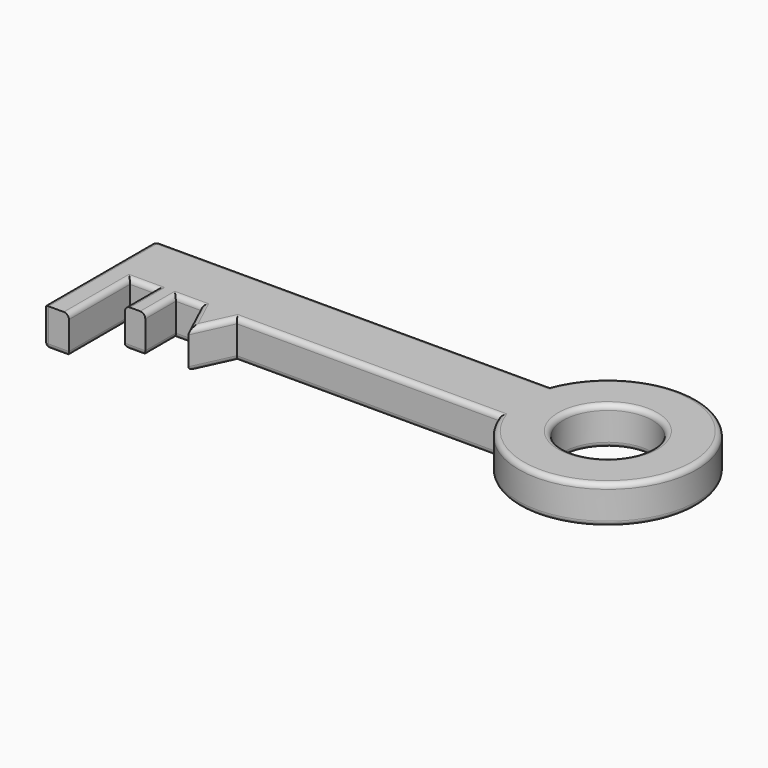
from build123d import *

# Parameters (mm, degrees)
F0_R     = 17.5
F0_W     = 10
F0_H     = 30
F0_W_2   = 8
F0_H_2   = 15
F1_DEPTH = 15
F2_R     = 2
F3_DEPTH = 15
F4_R     = 2


with BuildPart() as f1:
    # F0 (on Top) → F1 (new body)
    with BuildSketch(Plane.XY):
        Polygon((0, 0), (0, 25), (-155, 25), (-155, 0), (-145, 0), (-135, 0), (-127, 0), (-117, 0), (-103, 0), align=None)
        with BuildLine():
            ThreePointArc((0, 0), (67.6917420766, 12.5), (0, 25))
            Line((0, 25), (0, 0))
        make_face()
        with Locations((32.6917420766, 12.5)):
            Circle(F0_R, mode=Mode.SUBTRACT)
        with Locations((-150, -15)):
            Rectangle(F0_W, F0_H)
        with Locations((-131, -7.5)):
            Rectangle(F0_W_2, F0_H_2)
        Polygon((-110, -15.0000602999), (-103, 0), (-117, 0), align=None)
    extrude(amount=F1_DEPTH)

    # F2
    f2_edges = [f1.edges().sort_by_distance(p)[0] for p in [
        (-77.5, 25, 15),
        (-77.5, 25, 0),
        (-155, -2.5, 0),
        (-155, -2.5, 15),
        (-51.5, 0, 0),
        (-150, -30, 15),
        (-145, -15, 15),
        (-140, 0, 15),
        (-135, -7.5, 15),
        (-131, -15, 15),
        (-127, -7.5, 15),
        (-122, 0, 15),
        (-113.5, -7.50003, 15),
        (-106.5, -7.50003, 15),
        (-51.5, 0, 15),
        (67.691742, 12.5, 15),
        (15.191742, 12.5, 15),
    ]]
    fillet(f2_edges, radius=F2_R)

    # F0 (on Top) → F3 (join)
    with BuildSketch(Plane.XY):
        Polygon((0, 0), (0, 25), (-155, 25), (-155, 0), (-145, 0), (-135, 0), (-127, 0), (-117, 0), (-103, 0), align=None)
        with BuildLine():
            ThreePointArc((0, 0), (67.6917420766, 12.5), (0, 25))
            Line((0, 25), (0, 0))
        make_face()
        with Locations((32.6917420766, 12.5)):
            Circle(F0_R, mode=Mode.SUBTRACT)
        with Locations((-150, -15)):
            Rectangle(F0_W, F0_H)
        Polygon((-110, -15.0000602999), (-103, 0), (-117, 0), align=None)
        with Locations((-131, -7.5)):
            Rectangle(F0_W_2, F0_H_2)
    extrude(amount=F3_DEPTH)

    # F4
    f4_edges = [f1.edges().sort_by_distance(p)[0] for p in [
        (-77.5, 25, 15),
        (-155, -2.5, 15),
        (-145, -15, 15),
        (-135, -7.5, 15),
        (-127, -7.5, 15),
        (-113.5, -7.50003, 15),
        (-106.5, -7.50003, 15),
        (-51.5, 0, 15),
        (-122, 0, 15),
        (-140, 0, 15),
        (-155, -30, 7.5),
        (-155, -2.5, 0),
        (-155, 25, 7.5),
        (67.691742, 12.5, 15),
        (15.191742, 12.5, 15),
        (15.191742, 12.5, 0),
        (67.691742, 12.5, 0),
        (-77.5, 25, 0),
        (-150, -30, 0),
        (-145, -15, 0),
        (-140, 0, 0),
        (-135, -7.5, 0),
        (-131, -15, 0),
        (-127, -7.5, 0),
        (-122, 0, 0),
        (-113.5, -7.50003, 0),
        (-106.5, -7.50003, 0),
        (-51.5, 0, 0),
    ]]
    fillet(f4_edges, radius=F4_R)


solid = f1.part
